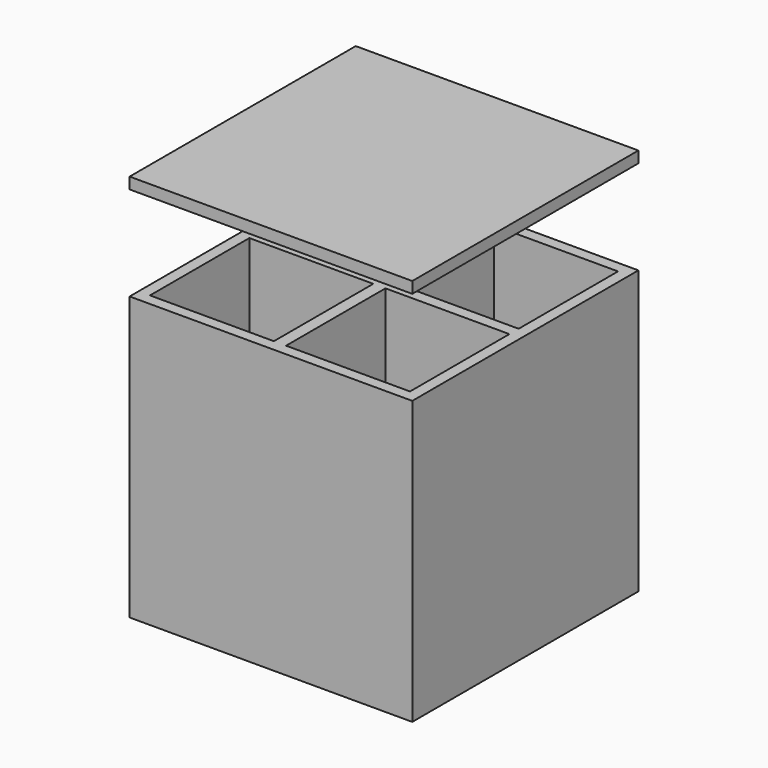
from build123d import *

# Parameters (mm, degrees)
F0_W     = 300
F0_H     = 300
F1_DEPTH = 300
F2_T     = -12
F3_W     = 131.5273979791
F3_H     = 12.2813489288
F3_W_2   = 12.9452040419
F3_H_2   = 131.8593255356
F4_DEPTH = 288
F6_W     = 300.0000076178
F6_H     = 300
F7_DEPTH = 12


with BuildPart() as f1:
    # F0 (on Top) → F1 (new body)
    with BuildSketch(Plane.XY):
        Rectangle(F0_W, F0_H)
    extrude(amount=F1_DEPTH)

    # F2
    f2_openings = [f1.faces().sort_by_distance(p)[0] for p in [
        (0, 0, 300),
    ]]
    offset(amount=F2_T, openings=f2_openings)

    # F3 (on face) → F4 (join)
    with BuildSketch(Plane.XY.offset(12)):
        with Locations((-72.2363010105, 0)):
            Rectangle(F3_W, F3_H)
        Rectangle(F3_W_2, F3_H)
        with Locations((0, 72.0703372322)):
            Rectangle(F3_W_2, F3_H_2)
        with Locations((72.2363010105, 0)):
            Rectangle(F3_W, F3_H)
        with Locations((0, -72.0703372322)):
            Rectangle(F3_W_2, F3_H_2)
    extrude(amount=F4_DEPTH)


with BuildPart() as f7:
    # F6 (on offset) → F7 (new body)
    with BuildSketch(Plane.XY.offset(400)):
        Rectangle(F6_W, F6_H)
    extrude(amount=F7_DEPTH)


solid = Compound([f1.part, f7.part])
